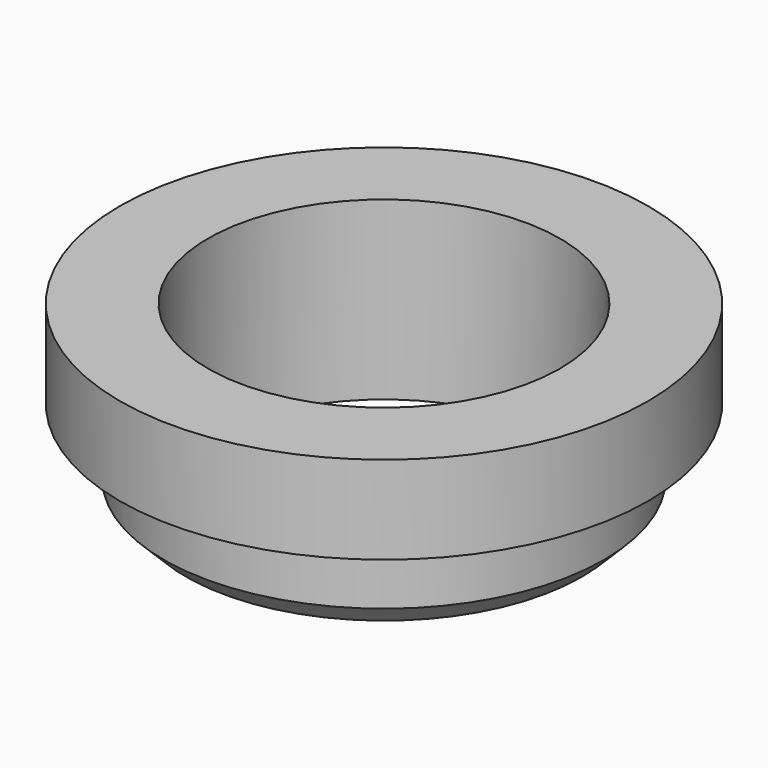
from build123d import *

# Parameters (mm, degrees)
F0_R     = 6
F0_R_2   = 4
F1_DEPTH = 2
F2_R     = 5
F2_R_2   = 4
F3_DEPTH = 2
F4_SIZE  = 0.5


with BuildPart() as f1:
    # F0 (on Top) → F1 (new body)
    with BuildSketch(Plane.XY):
        Circle(F0_R)
        Circle(F0_R_2, mode=Mode.SUBTRACT)
    extrude(amount=F1_DEPTH)

    # F2 (on face) → F3 (join)
    with BuildSketch(Plane(origin=(0, 0, 0), x_dir=(1, 0, 0), z_dir=(0, 0, -1))):
        Circle(F2_R)
        Circle(F2_R_2, mode=Mode.SUBTRACT)
    extrude(amount=F3_DEPTH)

    # F4
    f4_edges = [f1.edges().sort_by_distance(p)[0] for p in [
        (-5, 0, -2),
    ]]
    chamfer(f4_edges, length=F4_SIZE)


solid = f1.part
